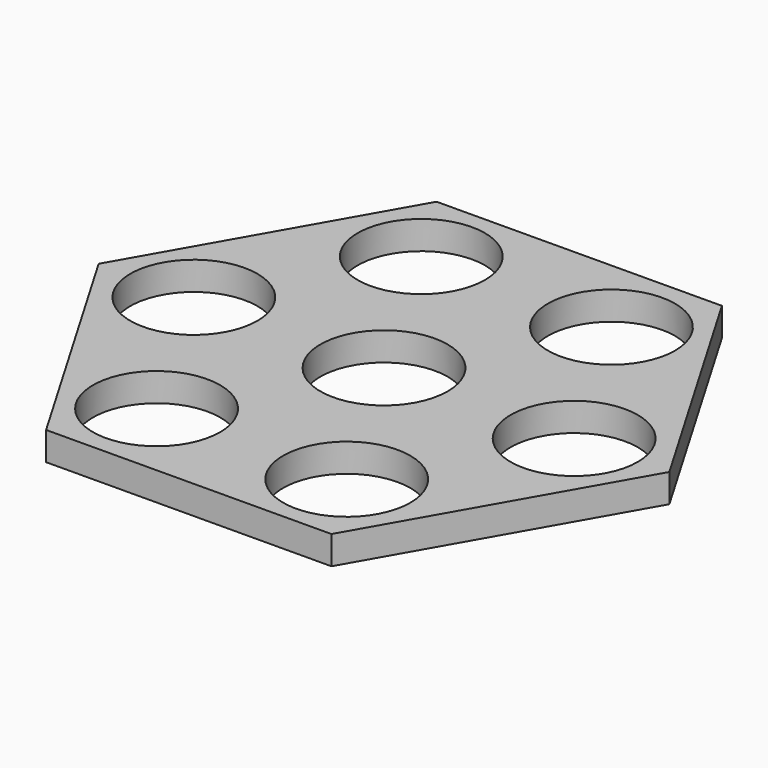
from build123d import *

# Parameters (mm, degrees)
F0_R     = 11.2
F1_DEPTH = 5


with BuildPart() as f1:
    # F0 (on Top) → F1 (new body)
    with BuildSketch(Plane.XY):
        Polygon((49.999069, 0.305094), (24.735316, 43.453011), (-25.263753, 43.147917), (-49.999069, -0.305094), (-24.735316, -43.453011), (25.263753, -43.147917), align=None)
        with Locations((-16.835953, -29.011287)):
            Circle(F0_R, mode=Mode.SUBTRACT)
        with Locations((16.706536, -29.086007)):
            Circle(F0_R, mode=Mode.SUBTRACT)
        with Locations((33.542488, -0.074719)):
            Circle(F0_R, mode=Mode.SUBTRACT)
        with Locations((-33.542488, 0.074719)):
            Circle(F0_R, mode=Mode.SUBTRACT)
        with Locations((-16.706536, 29.086007)):
            Circle(F0_R, mode=Mode.SUBTRACT)
        Circle(F0_R, mode=Mode.SUBTRACT)
        with Locations((16.835953, 29.011287)):
            Circle(F0_R, mode=Mode.SUBTRACT)
    extrude(amount=F1_DEPTH)


solid = f1.part
